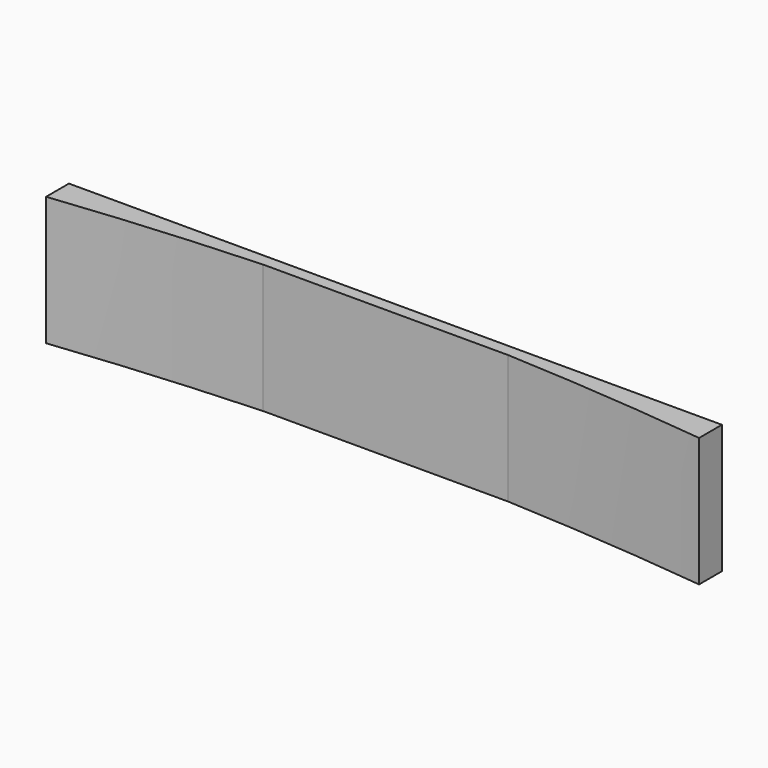
from build123d import *

# Parameters (mm, degrees)
PAD_DEPTH = 15.8


with BuildPart() as part:
    # Sketch → Pad (new body)
    with BuildSketch(Plane.XY):
        with BuildLine():
            Line((-15, 50), (15, 50))
            ThreePointArc((40, 48), (27.516552, 49.206897), (15, 50))
            Line((40, 51.5), (40, 48))
            Line((-40, 51.5), (40, 51.5))
            Line((-40, 48), (-40, 51.5))
            ThreePointArc((-15, 50), (-27.516552, 49.206897), (-40, 48))
        make_face()
    extrude(amount=PAD_DEPTH)


solid = part.part
